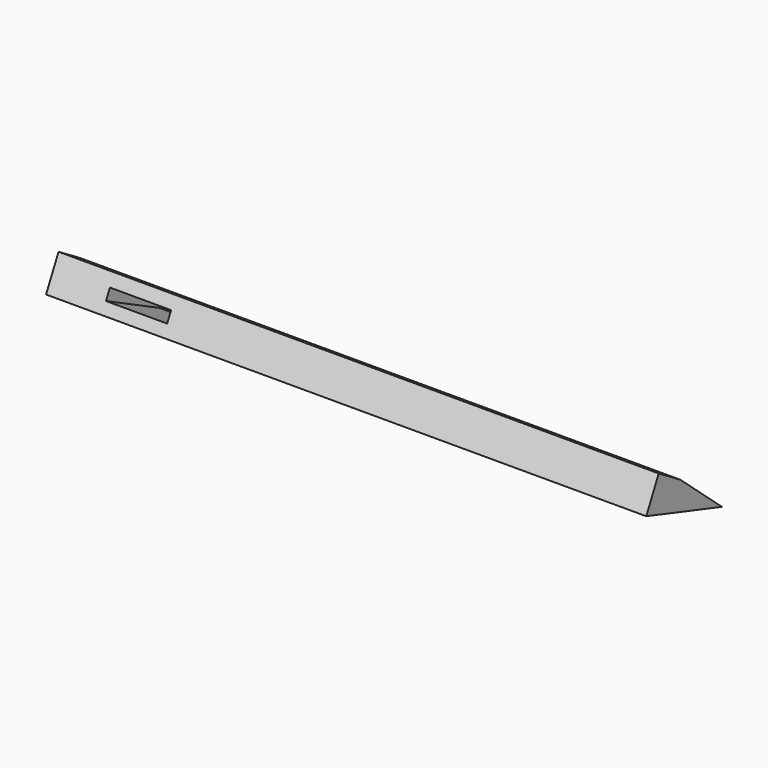
from build123d import *

# Parameters (mm, degrees)
F1_DEPTH = 939.8
F2_W     = 95.7861989737
F2_H     = 17.2806475312
F3_DEPTH = 153.6309794951
F4_R     = 46.1278485026
F5_DEPTH = 44.9828275762


with BuildPart() as f1:
    # F0 (on Right) → F1 (new body)
    with BuildSketch(Plane.YZ):
        Polygon((-16.2542276084, 49.0534752607), (-40.6355895102, 0), (107.4585616589, -47.2123473883), (26.1873789132, 23.1404751539), align=None)
    extrude(amount=F1_DEPTH)

    # F2 (on face) → F3 (cut, through all)
    with BuildSketch(Plane(origin=(0, -32.5854994089, 16.1961787542), x_dir=(1, 0, 0), z_dir=(0, -0.8954862226, 0.4450892328))):
        with Locations((135.2553740144, 8.6403237656)):
            Rectangle(F2_W, F2_H)
    extrude(amount=-F3_DEPTH, mode=Mode.SUBTRACT)

    # F4 (on face) → F5 (cut, through all)
    with BuildSketch(Plane(origin=(0, -3.7489093909, -11.7594566838), x_dir=(1, 0, 0), z_dir=(0, -0.3037380425, -0.9527555833))):
        with Locations((275.9448885918, -41.0455577075)):
            Circle(F4_R)
    extrude(amount=F5_DEPTH, mode=Mode.SUBTRACT)


solid = f1.part
